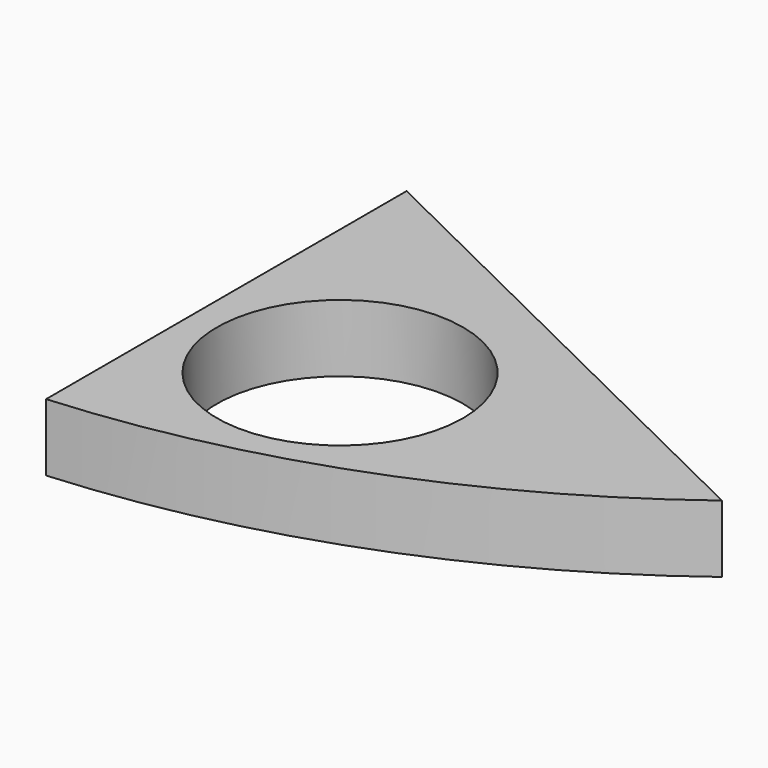
from build123d import *

# Parameters (mm, degrees)
F0_R     = 1830
F1_DEPTH = 1000


with BuildPart() as f1:
    # F0 (on Top) → F1 (new body)
    with BuildSketch(Plane.XY):
        with BuildLine():
            Line((-42.546928, 5703.555616), (-42.546928, -996.444384))
            ThreePointArc((-42.546928, -996.444384), (4028.972857, -102.939126), (7677.236196, 1913.443676))
            Line((7677.236196, 1913.443676), (-42.546928, 5703.555616))
        make_face()
        with Locations((2207.453072, 1653.555616)):
            Circle(F0_R, mode=Mode.SUBTRACT)
    extrude(amount=-F1_DEPTH)


solid = f1.part
